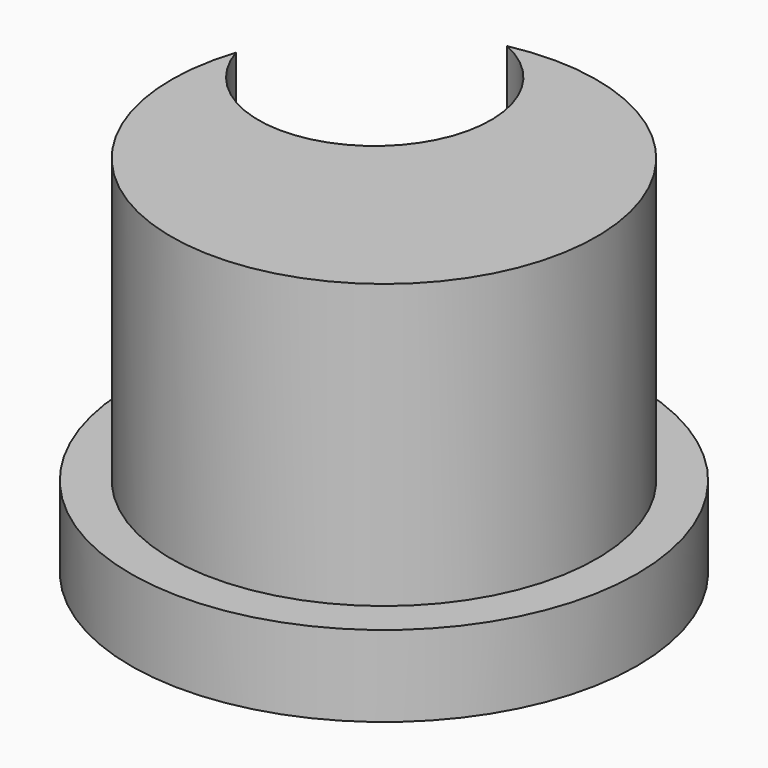
from build123d import *

# Parameters (mm, degrees)
F0_R     = 12.5
F1_DEPTH = 4
F2_R     = 10.5
F3_DEPTH = 14
F4_R     = 5.734203
F5_DEPTH = 14


with BuildPart() as f1:
    # F0 (on Top) → F1 (new body)
    with BuildSketch(Plane.XY):
        Circle(F0_R)
    extrude(amount=F1_DEPTH)

    # F2 (on face) → F3 (join)
    with BuildSketch(Plane.XY.offset(4)):
        Circle(F2_R)
    extrude(amount=F3_DEPTH)

    # F4 (on face) → F5 (cut)
    with BuildSketch(Plane.XY.offset(4)):
        with Locations((-4.499399, 5.053002)):
            Circle(F4_R)
    extrude(amount=F5_DEPTH, mode=Mode.SUBTRACT)


solid = f1.part
